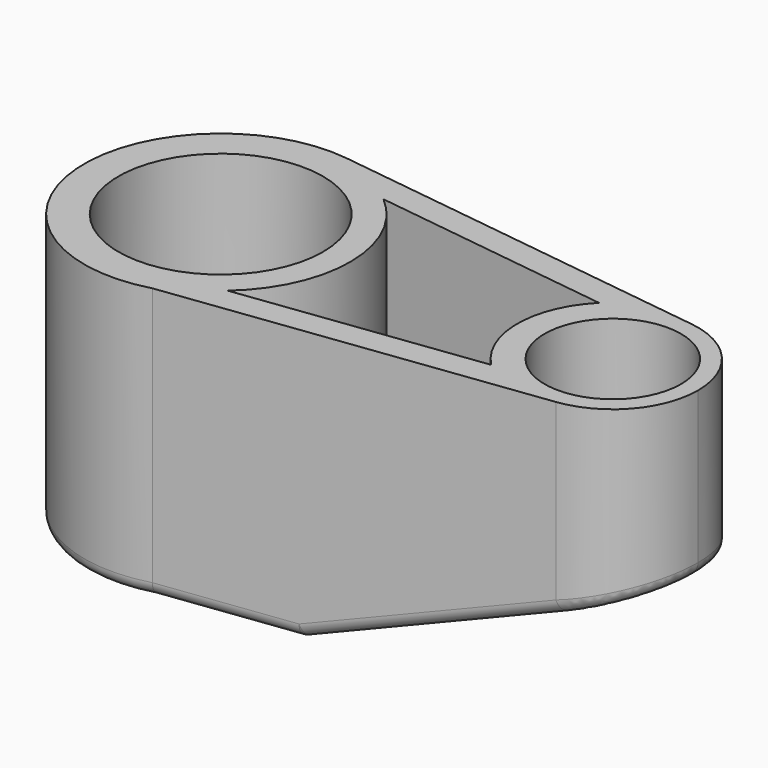
from build123d import *

# Parameters (mm, degrees)
F0_R          = 9.525
F0_R_2        = 6.35
F1_DEPTH      = 25.4
F3_DEPTH      = 25.4
F3_DEPTH_BACK = 25.4
F4_R          = 1.27
F5_T          = -2.54


with BuildPart() as f1:
    # F0 (on Top) → F1 (new body)
    with BuildSketch(Plane.XY):
        with BuildLine():
            ThreePointArc((1.6565217391, 12.5915025207), (9.5479795268, 8.3741320121), (12.7, 0))
            ThreePointArc((12.7, 0), (10.1185149246, -7.6750020013), (3.4235187843, -12.229861779))
            Line((3.4235187843, -12.229861779), (37.5185084512, -7.8734905376))
            ThreePointArc((37.5185084512, -7.8734905376), (28.5750137634, 0.0147815331), (37.547826087, 7.8696890754))
            Line((37.547826087, 7.8696890754), (1.6565217391, 12.5915025207))
        make_face()
        with BuildLine():
            ThreePointArc((3.4235187843, -12.229861779), (10.1185149246, -7.6750020013), (12.7, 0))
            ThreePointArc((12.7, 0), (9.5479795268, 8.3741320121), (1.6565217391, 12.5915025207))
            ThreePointArc((1.6565217391, 12.5915025207), (-12.6679412042, -0.9018124228), (3.4235187843, -12.229861779))
        make_face()
        Circle(F0_R, mode=Mode.SUBTRACT)
        with BuildLine():
            ThreePointArc((44.45, 0), (42.4799872042, 5.2338325076), (37.547826087, 7.8696890754))
            ThreePointArc((37.547826087, 7.8696890754), (28.5750137634, 0.0147815331), (37.5185084512, -7.8734905376))
            ThreePointArc((37.5185084512, -7.8734905376), (42.4702302025, -5.244936328), (44.45, 0))
        make_face()
        with Locations((36.5125, 0)):
            Circle(F0_R_2, mode=Mode.SUBTRACT)
    extrude(amount=F1_DEPTH)

    # F2 (on Front) → F3 (cut, two sides)
    with BuildSketch(Plane.XZ) as f3_sk:
        Polygon((44.45, 10.4004494442), (15.875, 0), (44.45, 0), align=None)
    extrude(amount=-F3_DEPTH, mode=Mode.SUBTRACT)
    extrude(f3_sk.sketch, amount=F3_DEPTH_BACK, mode=Mode.SUBTRACT)

    # F4
    f4_edges = [f1.edges().sort_by_distance(p)[0] for p in [
        (26.711413, 9.295314, 3.944132),
        (-12.667941, -0.901812, 0),
        (8.765761, 11.65622, 0),
        (9.649259, -11.434389, 0),
        (15.875, 0.041011, 0),
    ]]
    fillet(f4_edges, radius=F4_R)

    # F5
    f5_openings = [f1.faces().sort_by_distance(p)[0] for p in [
        (15.37002, 0.035477, 25.4),
    ]]
    offset(amount=F5_T, openings=f5_openings)


solid = f1.part
